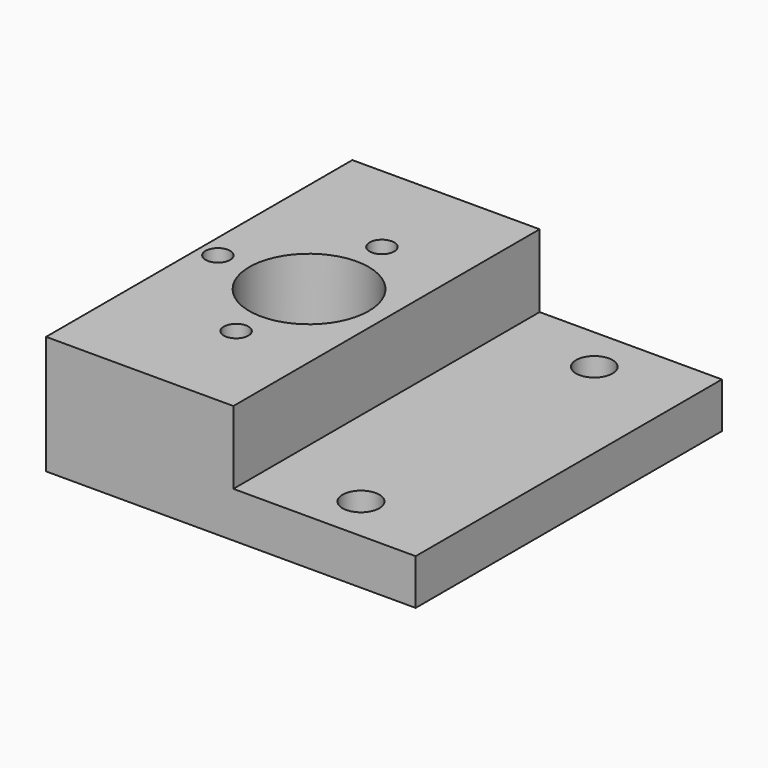
from build123d import *

# Parameters (mm, degrees)
F0_W     = 20
F0_H     = 42
F0_R     = 2.019388
F0_R_2   = 2
F1_DEPTH = 5
F0_W_2   = 20.55
F0_R_3   = 1.35
F0_R_4   = 6.55
F2_DEPTH = 13


with BuildPart() as f1:
    # F0 (on Top) → F1 (new body)
    with BuildSketch(Plane.XY):
        with Locations((13.556335, 14.165893)):
            Rectangle(F0_W, F0_H)
        with Locations((13.556335, -1.834107)):
            Circle(F0_R, mode=Mode.SUBTRACT)
        with Locations((13.556335, 30.165893)):
            Circle(F0_R_2, mode=Mode.SUBTRACT)
    extrude(amount=F1_DEPTH)

    # F0 (on Top) → F2 (join)
    with BuildSketch(Plane.XY):
        with Locations((-6.718665, 14.165893)):
            Rectangle(F0_W_2, F0_H)
        with Locations((-14.943665, 14.165893)):
            Circle(F0_R_3, mode=Mode.SUBTRACT)
        with Locations((-4.943665, 4.165893)):
            Circle(F0_R_3, mode=Mode.SUBTRACT)
        with Locations((-4.943665, 14.165893)):
            Circle(F0_R_4, mode=Mode.SUBTRACT)
        with Locations((-4.943665, 24.165893)):
            Circle(F0_R_3, mode=Mode.SUBTRACT)
    extrude(amount=F2_DEPTH)


solid = f1.part
